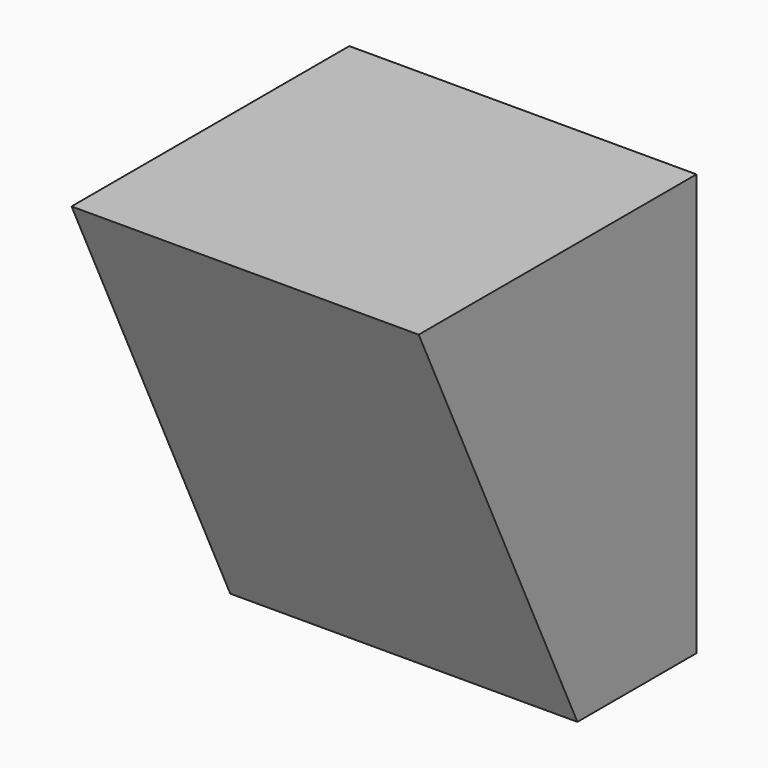
from build123d import *

# Parameters (mm, degrees)
F1_W      = 140
F1_H      = 140
F5_W      = 140
F5_H      = 100
F6_FACE_W = 140
F6_FACE_H = 140
F3_W      = 140
F3_H      = 60


with BuildPart() as f6:
    # F1 (on offset) → F6 section 0
    with BuildSketch(Plane.XY.offset(170)):
        with Locations((0, -70)):
            Rectangle(F1_W, F1_H)
    # F5 (on offset) → F6 section 1
    with BuildSketch(Plane.XY.offset(85)):
        with Locations((0, -50)):
            Rectangle(F5_W, F5_H)
    loft()

    # F6_face (on face) → F7 section 0
    with BuildSketch(Plane(origin=(0, -70, 170), x_dir=(1, 0, 0), z_dir=(0, 0, 1))):
        Rectangle(F6_FACE_W, F6_FACE_H)
    # F3 (on Top) → F7 section 1
    with BuildSketch(Plane.XY):
        with Locations((0, -30)):
            Rectangle(F3_W, F3_H)
    loft()


solid = f6.part
